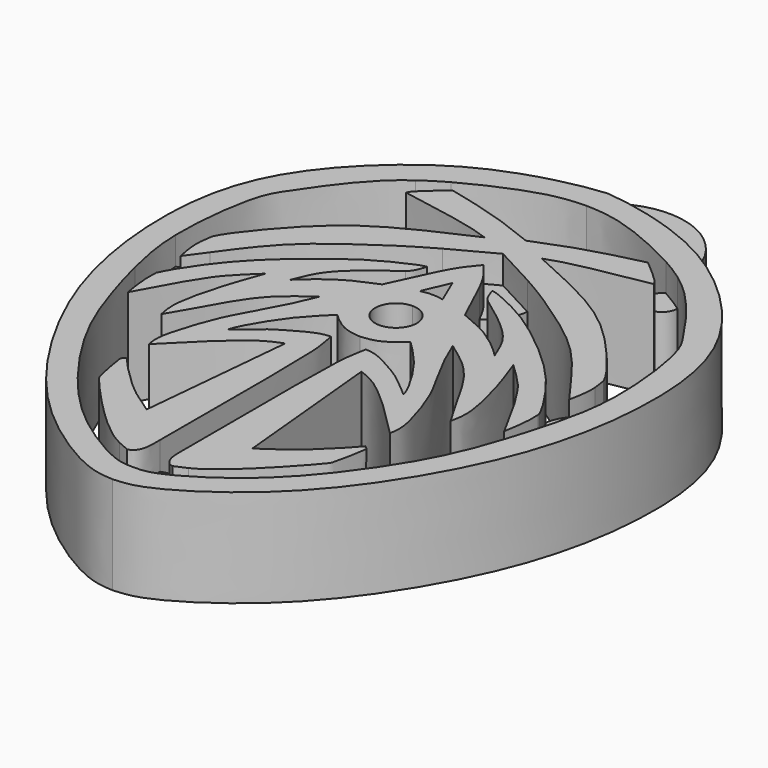
from build123d import *

# Parameters (mm, degrees)
F1_DEPTH = 7
F2_DEPTH = 5
F0_R     = 1.5875
F3_DEPTH = 3.5


with BuildPart() as f1:
    # F0 (on Top) → F1 (new body)
    with BuildSketch(Plane.XY):
        with BuildLine():
            Line((2.5498603781, 16.0869810225), (2.5498603781, 18.1321449599))
            add(Edge.make_bspline(
                [(2.5498603781, 18.1321449599), (1.5024160815, 18.5503812822), (-0.6617166136, 19.4145025556), (-3.1553280115, 20.0140728577), (-4.4420268008, 20.3234500054)],
                knots=[0, 0, 0, 0, 0.4840018817, 1, 1, 1, 1], degree=3))
            add(Edge.make_bspline(
                [(-4.4420268008, 20.3234500054), (-4.4763588659, 20.2944130671), (-4.510690931, 20.2653761289), (-4.5449728099, 20.2363700502)],
                knots=[0, 0, 0, 0, 0.0354428577, 0.0354428577, 0.0354428577, 0.0354428577], degree=3))
            add(Edge.make_bspline(
                [(-4.5449728099, 20.2363700502), (-5.131219733, 19.7403434337), (-5.7027903532, 19.2533412889), (-6.0087084223, 18.9296891348)],
                knots=[0.0354428577, 0.0354428577, 0.0354428577, 0.0354428577, 0.6415434263, 0.6415434263, 0.6415434263, 0.6415434263], degree=3))
            add(Edge.make_bspline(
                [(-6.0087084223, 18.9296891348), (-6.0338340364, 18.9031069876), (-6.2018545789, 18.7196290135), (-6.2697477029, 18.5977194783), (-6.3282122643, 18.4927399593)],
                knots=[0.6415434263, 0.6415434263, 0.6415434263, 0.6415434263, 0.6913235816, 1, 1, 1, 1], degree=3))
            add(Edge.make_bspline(
                [(-6.3282122643, 18.4927399593), (-4.2930704674, 18.1334262922), (-1.1508809937, 17.5786582539), (0.0664536208, 17.1469758472), (0.495341652, 16.9948866719)],
                knots=[0, 0, 0, 0, 0.647682711, 1, 1, 1, 1], degree=3))
            add(Edge.make_bspline(
                [(0.495341652, 16.9948866719), (-0.7998085576, 16.417448036), (-3.4759172157, 15.2243134317), (-7.409307949, 12.9173216603), (-10.9365087042, 8.6189730965), (-11.3374877977, 7.8317296814), (-11.4597479353, 7.5916959993)],
                knots=[0, 0, 0, 0, 0.2716335792, 0.5612638347, 0.8662275795, 1, 1, 1, 1], degree=3))
            add(Edge.make_bspline(
                [(-11.4597479353, 7.5916959993), (-11.5108762638, 7.2819002463), (-11.5620045924, 6.9721044933), (-11.585804411, 6.6554963703)],
                knots=[0, 0, 0, 0, 0.3287020226, 0.3287020226, 0.3287020226, 0.3287020226], degree=3))
            add(Edge.make_bspline(
                [(-11.585804411, 6.6554963703), (-11.5969674057, 6.5069954562), (-11.6193950679, 5.8538709088), (-11.4743767971, 5.1590059354), (-11.3626640935, 4.6237268674)],
                knots=[0.3287020226, 0.3287020226, 0.3287020226, 0.3287020226, 0.4828754226, 1, 1, 1, 1], degree=3))
            add(Edge.make_bspline(
                [(-11.3626640935, 4.6237268674), (-11.0817155704, 5.0192887693), (-10.7580452361, 5.4539451094), (-10.365085568, 5.9887970352)],
                knots=[0, 0, 0, 0, 0.1302768784, 0.1302768784, 0.1302768784, 0.1302768784], degree=3))
            add(Edge.make_bspline(
                [(-10.365085568, 5.9887970352), (-10.3102133227, 6.0634828832), (-9.5914407162, 7.0432617189), (-7.7361784198, 9.6295204744), (-4.1803860395, 12.1680153071), (-2.1379099721, 13.5231445843), (-0.7917821127, 14.2942534016), (-0.4964926039, 14.4598496008)],
                knots=[0.1302768784, 0.1302768784, 0.1302768784, 0.1302768784, 0.1484685286, 0.3628434069, 0.5837852, 0.7774477843, 0.8297918388, 0.8297918388, 0.8297918388, 0.8297918388], degree=3))
            add(Edge.make_bspline(
                [(-0.4964926039, 14.4598496008), (0.4637059285, 14.9983219227), (1.5176633453, 15.5529037265), (2.5498603781, 16.0869810225)],
                knots=[0.8297918388, 0.8297918388, 0.8297918388, 0.8297918388, 1, 1, 1, 1], degree=3))
        make_face()
        with BuildLine():
            add(Edge.make_bspline(
                [(2.5498603781, 18.1321449599), (3.5973046747, 18.5503812822), (5.7614373698, 19.4145025556), (8.2550487677, 20.0140728577), (9.5417475569, 20.3234500054)],
                knots=[0, 0, 0, 0, 0.4840018817, 1, 1, 1, 1], degree=3))
            Line((2.5498603781, 18.1321449599), (2.5498603781, 16.0869810225))
            add(Edge.make_bspline(
                [(5.5962133601, 14.4598496008), (4.6360148277, 14.9983219227), (3.5820574109, 15.5529037265), (2.5498603781, 16.0869810225)],
                knots=[0.8297918388, 0.8297918388, 0.8297918388, 0.8297918388, 1, 1, 1, 1], degree=3))
            add(Edge.make_bspline(
                [(15.4648063242, 5.9887970352), (15.4099340789, 6.0634828832), (14.6911614723, 7.0432617189), (12.8358991759, 9.6295204744), (9.2801067957, 12.1680153071), (7.2376307282, 13.5231445843), (5.8915028689, 14.2942534016), (5.5962133601, 14.4598496008)],
                knots=[0.1302768784, 0.1302768784, 0.1302768784, 0.1302768784, 0.1484685286, 0.3628434069, 0.5837852, 0.7774477843, 0.8297918388, 0.8297918388, 0.8297918388, 0.8297918388], degree=3))
            add(Edge.make_bspline(
                [(16.4623848496, 4.6237268674), (16.1814363266, 5.0192887693), (15.8577659923, 5.4539451094), (15.4648063242, 5.9887970352)],
                knots=[0, 0, 0, 0, 0.1302768784, 0.1302768784, 0.1302768784, 0.1302768784], degree=3))
            add(Edge.make_bspline(
                [(16.6855251672, 6.6554963703), (16.6966881619, 6.5069954562), (16.719115824, 5.8538709088), (16.5740975533, 5.1590059354), (16.4623848496, 4.6237268674)],
                knots=[0.3287020226, 0.3287020226, 0.3287020226, 0.3287020226, 0.4828754226, 1, 1, 1, 1], degree=3))
            add(Edge.make_bspline(
                [(16.5594686914, 7.5916959993), (16.61059702, 7.2819002463), (16.6617253486, 6.9721044933), (16.6855251672, 6.6554963703)],
                knots=[0, 0, 0, 0, 0.3287020226, 0.3287020226, 0.3287020226, 0.3287020226], degree=3))
            add(Edge.make_bspline(
                [(4.6043791042, 16.9948866719), (5.8995293138, 16.417448036), (8.5756379718, 15.2243134317), (12.5090287052, 12.9173216603), (16.0362294603, 8.6189730965), (16.4372085538, 7.8317296814), (16.5594686914, 7.5916959993)],
                knots=[0, 0, 0, 0, 0.2716335792, 0.5612638347, 0.8662275795, 1, 1, 1, 1], degree=3))
            add(Edge.make_bspline(
                [(11.4279330204, 18.4927399593), (9.3927912236, 18.1334262922), (6.2506017499, 17.5786582539), (5.0332671353, 17.1469758472), (4.6043791042, 16.9948866719)],
                knots=[0, 0, 0, 0, 0.647682711, 1, 1, 1, 1], degree=3))
            add(Edge.make_bspline(
                [(11.1084291785, 18.9296891348), (11.1335547926, 18.9031069876), (11.301575335, 18.7196290135), (11.369468459, 18.5977194783), (11.4279330204, 18.4927399593)],
                knots=[0.6415434263, 0.6415434263, 0.6415434263, 0.6415434263, 0.6913235816, 1, 1, 1, 1], degree=3))
            add(Edge.make_bspline(
                [(9.6446935661, 20.2363700502), (10.2309404891, 19.7403434337), (10.8025111094, 19.2533412889), (11.1084291785, 18.9296891348)],
                knots=[0.0354428577, 0.0354428577, 0.0354428577, 0.0354428577, 0.6415434263, 0.6415434263, 0.6415434263, 0.6415434263], degree=3))
            add(Edge.make_bspline(
                [(9.5417475569, 20.3234500054), (9.576079622, 20.2944130671), (9.6104116872, 20.2653761289), (9.6446935661, 20.2363700502)],
                knots=[0, 0, 0, 0, 0.0354428577, 0.0354428577, 0.0354428577, 0.0354428577], degree=3))
        make_face()
    extrude(amount=F1_DEPTH)



with BuildPart() as f1b:
    # F0 (on Top) → F1, piece 2 (new body)
    with BuildSketch(Plane.XY):
        with BuildLine():
            Line((2.5498603781, 11.558265988), (2.5498603781, 14.3534654393))
            add(Edge.make_bspline(
                [(2.5498603781, 14.3534654393), (2.2259246888, 13.9723706889), (1.7128511282, 13.3687643343), (1.2126462249, 12.432348769), (1.0338453437, 12.0734441253)],
                knots=[0, 0, 0, 0, 0.2953984985, 0.4678742247, 0.4678742247, 0.4678742247, 0.4678742247], degree=3))
            add(Edge.make_bspline(
                [(1.0338453437, 12.0734441253), (0.8285592855, 11.6613761362), (0.2967311228, 10.5055216793), (-0.1398450297, 9.563652863), (-0.4139548051, 8.9722887947)],
                knots=[0.4678742247, 0.4678742247, 0.4678742247, 0.4678742247, 0.6658982037, 1, 1, 1, 1], degree=3))
            add(Edge.make_bspline(
                [(-0.4139548051, 8.9722887947), (-1.055373734, 8.71192631), (-2.3097248616, 8.2027645726), (-3.8564689429, 7.0721150532), (-4.4869721315, 6.4683751369), (-4.7688249271, 6.1984862826)],
                knots=[0, 0, 0, 0, 0.3665560545, 0.7168326027, 1, 1, 1, 1], degree=3))
            add(Edge.make_bspline(
                [(-4.7688249271, 6.1984862826), (-4.536388598, 6.8006454228), (-4.0563068803, 8.0443649199), (-2.4188401595, 9.5838079413), (-1.0970493288, 10.552187106), (-0.4139548051, 11.0526403463)],
                knots=[0, 0, 0, 0, 0.3120194135, 0.6444552647, 1, 1, 1, 1], degree=3))
            add(Edge.make_bspline(
                [(-0.4139548051, 11.0526403463), (-0.3129414482, 11.1387370093), (-0.0648231048, 11.3502155905), (0.1121569163, 11.8860701235), (0.2170852471, 12.2037688182)],
                knots=[0, 0, 0, 0, 0.4071176502, 1, 1, 1, 1], degree=3))
            add(Edge.make_bspline(
                [(0.2170852471, 12.2037688182), (0.1098069085, 12.1898826125), (-0.2542073889, 12.1427642706), (-2.5591274282, 11.0604625468), (-4.8208141775, 9.5107241095), (-7.9008195416, 6.9161749393), (-9.3601934364, 5.050525478), (-9.6955345112, 4.5877093102)],
                knots=[0, 0, 0, 0, 0.071079847, 0.2411864397, 0.431168476, 0.6816967481, 0.7716308165, 0.7716308165, 0.7716308165, 0.7716308165], degree=3))
            add(Edge.make_bspline(
                [(-9.6955345112, 4.5877093102), (-10.1643039753, 3.9407438675), (-10.8377956888, 2.8720074292), (-11.0612661415, 2.393135799), (-11.1617155493, 2.1778842027)],
                knots=[0.7716308165, 0.7716308165, 0.7716308165, 0.7716308165, 0.897348625, 1, 1, 1, 1], degree=3))
            add(Edge.make_bspline(
                [(-11.1617155493, 2.1778842027), (-11.1627880286, 2.1510214394), (-11.1638605078, 2.1241586761), (-11.1649151852, 2.0972736115)],
                knots=[0, 0, 0, 0, 0.0334524547, 0.0334524547, 0.0334524547, 0.0334524547], degree=3))
            add(Edge.make_bspline(
                [(-11.1649151852, 2.0972736115), (-11.1780393532, 1.7627219031), (-11.2021118102, 0.9779088711), (-11.0263916767, -0.0571935391), (-10.9263510794, -0.6464957515)],
                knots=[0.0334524547, 0.0334524547, 0.0334524547, 0.0334524547, 0.4497272915, 1, 1, 1, 1], degree=3))
            add(Edge.make_bspline(
                [(-10.9263510794, -0.6464957515), (-10.2185399064, 0.6694656993), (-9.0121923666, 2.9000598259), (-7.8473075322, 4.5003773786), (-6.8153142065, 5.4424143517), (-6.3171203718, 5.9241092613)],
                knots=[0, 0, 0, 0, 0.4173439585, 0.7054166704, 1, 1, 1, 1], degree=3))
            add(Edge.make_bspline(
                [(-6.3171203718, 5.9241092613), (-6.5122714979, 5.3634745704), (-7.0433010776, 4.0266454822), (-8.1543009121, 0.092866239), (-7.9058388142, -1.0906436914), (-7.8077646736, -1.5487286127)],
                knots=[0, 0, 0, 0, 0.3044271067, 0.7304904484, 1, 1, 1, 1], degree=3))
            add(Edge.make_bspline(
                [(-7.8077646736, -1.5487286127), (-7.2666448651, -0.6974030461), (-6.368897938, 1.0308812644), (-4.8039197085, 3.644702153), (-3.2341162609, 4.8917420848), (-2.5042965495, 5.434389799), (-2.2178473452, 5.6299028762)],
                knots=[0, 0, 0, 0, 0.2900886434, 0.5814087861, 0.8172371287, 1, 1, 1, 1], degree=3))
            add(Edge.make_bspline(
                [(-2.2178473452, 5.6299028762), (-2.3829485826, 5.2143190749), (-2.7736830171, 4.2307837347), (-4.1250332111, 1.7266285673), (-5.0212655763, 0.1374579917), (-5.8488613291, -2.2845442713), (-6.2367396815, -3.9106694242), (-6.1275439546, -4.5543234149), (-6.0817553701, -4.8242241332)],
                knots=[0, 0, 0, 0, 0.1509314251, 0.3571996552, 0.5291429248, 0.7258482662, 0.8850411076, 1, 1, 1, 1], degree=3))
            add(Edge.make_bspline(
                [(-6.0817553701, -4.8242241332), (-5.2948602473, -4.0207972497), (-3.7759106356, -2.4699362551), (-1.5064578193, -0.5000337011), (-0.5597479201, -0.1431460479), (-0.1780178178, 0.0007573384)],
                knots=[0, 0, 0, 0, 0.3907971412, 0.7543586796, 1, 1, 1, 1], degree=3))
            add(Edge.make_bspline(
                [(-0.1780178178, 0.0007573384), (-0.530718876, -3.6937972299), (-0.8834199342, -7.3883517982), (-1.2361209925, -11.0829063665)],
                knots=[0, 0, 0, 0, 11.1340551217, 11.1340551217, 11.1340551217, 11.1340551217], degree=3))
            add(Edge.make_bspline(
                [(-1.2361209925, -11.0829063665), (-1.9202554869, -10.6369122943), (-3.3205986094, -9.7240147035), (-5.3323089115, -7.6943588484), (-5.8157254364, -7.1285383862), (-5.9943811889, -6.9194286947)],
                knots=[0, 0, 0, 0, 0.3758575264, 0.7693363022, 1, 1, 1, 1], degree=3))
            add(Edge.make_bspline(
                [(-5.9943811889, -6.9194286947), (-6.0724106789, -6.9669995968), (-6.2556170879, -7.078691909), (-6.2246927503, -7.565408349), (-5.8470993749, -9.4699316507), (-5.6966770124, -9.8067076531), (-4.6265400833, -11.0406813924), (-2.6302247227, -13.1429668745), (-0.9200835874, -14.6225288688), (-0.1002942522, -15.07243202), (0.0818402449, -15.1630223313)],
                knots=[0, 0, 0, 0, 0.0558372836, 0.1311010517, 0.2835442286, 0.3538641073, 0.4868091416, 0.6803152247, 0.8619488924, 0.9152000928, 0.9152000928, 0.9152000928, 0.9152000928], degree=3))
            add(Edge.make_bspline(
                [(0.0818402449, -15.1630223313), (0.3718804383, -15.3072829291), (0.6524832322, -15.4226137437), (0.933086026, -15.5379445582)],
                knots=[0.9152000928, 0.9152000928, 0.9152000928, 0.9152000928, 1, 1, 1, 1], degree=3))
            add(Edge.make_bspline(
                [(0.933086026, -15.5379445582), (1.0460820753, -15.5054648384), (1.3044677, -15.4311941647), (1.6612870941, -14.7713265798), (1.6596207661, -14.2722208963), (1.6569112979, -13.4954335239)],
                knots=[0, 0, 0, 0, 0.0714690077, 0.1634266359, 0.3016227606, 0.3016227606, 0.3016227606, 0.3016227606], degree=3))
            add(Edge.make_bspline(
                [(1.6569112979, -13.4954335239), (1.6566449973, -13.4190868446), (1.6473336729, -10.7536721342), (1.7436163144, 0.0476489529), (1.4487997799, 1.3485880066), (1.3485754988, 1.988749192), (1.3062829556, 2.2588837766)],
                knots=[0.3016227606, 0.3016227606, 0.3016227606, 0.3016227606, 0.3152053903, 0.7488235986, 0.8940088303, 1, 1, 1, 1], degree=3))
            add(Edge.make_bspline(
                [(1.3062829556, 2.2588837766), (1.0531484714, 2.2364227517), (0.4387830673, 2.1819091335), (-1.1051189298, 1.3175501423), (-2.2665837849, 0.617888243), (-3.481381067, -0.4851271067), (-3.6849663405, -0.645856427), (-3.7473539559, -0.6951110653)],
                knots=[0, 0, 0, 0, 0.1740278908, 0.4223711984, 0.6570649075, 0.8949093799, 1, 1, 1, 1], degree=3))
            add(Edge.make_bspline(
                [(-3.7473539559, -0.6951110653), (-3.7058972675, -0.5462348299), (-3.5739578554, -0.0724236367), (-2.1705978118, 2.3681841727), (-0.8551285759, 3.7564048353), (-0.299295445, 4.3052588076), (-0.067349253, 4.5342926341)],
                knots=[0, 0, 0, 0, 0.1569249471, 0.4994268983, 0.7911135225, 1, 1, 1, 1], degree=3))
            add(Edge.make_bspline(
                [(-0.067349253, 4.5342926341), (0.011285331, 4.4542316427), (0.2315362728, 4.229985416), (1.3013409196, 3.3863866348), (2.1354984606, 3.3062559104), (2.5498603781, 3.2664515342)],
                knots=[0, 0, 0, 0, 0.2184086147, 0.6117499523, 1, 1, 1, 1], degree=3))
            Line((2.5498603781, 3.2664515342), (2.5498603781, 5.0207314373))
            ThreePointArc((2.5498603781, 5.0207314373), (1.0610557558, 6.5095360596), (2.5498603781, 7.9983406819))
            Line((2.5498603781, 7.9983406819), (2.5498603781, 9.7538018612))
            add(Edge.make_bspline(
                [(1.7343357514, 9.6557330662), (1.9014491808, 9.6921204621), (2.2069680168, 9.7586443487), (2.442954397, 9.7553116379), (2.5498603781, 9.7538018612)],
                knots=[0, 0, 0, 0, 0.5469824105, 1, 1, 1, 1], degree=3))
            add(Edge.make_bspline(
                [(2.5498603781, 11.558265988), (2.2780188358, 10.9240883474), (2.0061772936, 10.2899107068), (1.7343357514, 9.6557330662)],
                knots=[0, 0, 0, 0, 2.0699545733, 2.0699545733, 2.0699545733, 2.0699545733], degree=3))
        make_face()
        with BuildLine():
            add(Edge.make_bspline(
                [(2.5498603781, 14.3534654393), (2.8737960673, 13.9723706889), (3.386869628, 13.3687643343), (3.8870745313, 12.432348769), (4.0658754125, 12.0734441253)],
                knots=[0, 0, 0, 0, 0.2953984985, 0.4678742247, 0.4678742247, 0.4678742247, 0.4678742247], degree=3))
            Line((2.5498603781, 14.3534654393), (2.5498603781, 11.558265988))
            add(Edge.make_bspline(
                [(2.5498603781, 11.558265988), (2.8217019203, 10.9240883474), (3.0935434626, 10.2899107068), (3.3653850048, 9.6557330662)],
                knots=[0, 0, 0, 0, 2.0699545733, 2.0699545733, 2.0699545733, 2.0699545733], degree=3))
            add(Edge.make_bspline(
                [(3.3653850048, 9.6557330662), (3.1982715754, 9.6921204621), (2.8927527394, 9.7586443487), (2.6567663592, 9.7553116379), (2.5498603781, 9.7538018612)],
                knots=[0, 0, 0, 0, 0.5469824105, 1, 1, 1, 1], degree=3))
            Line((2.5498603781, 9.7538018612), (2.5498603781, 7.9983406819))
            ThreePointArc((2.5498603781, 7.9983406819), (3.6026042224, 7.5622799039), (4.0386650004, 6.5095360596))
            ThreePointArc((4.0386650004, 6.5095360596), (3.6026042224, 5.4567922153), (2.5498603781, 5.0207314373))
            Line((2.5498603781, 5.0207314373), (2.5498603781, 3.2664515342))
            add(Edge.make_bspline(
                [(5.1670700092, 4.5342926341), (5.0884354251, 4.4542316427), (4.8681844834, 4.229985416), (3.7983798366, 3.3863866348), (2.9642222955, 3.3062559104), (2.5498603781, 3.2664515342)],
                knots=[0, 0, 0, 0, 0.2184086147, 0.6117499523, 1, 1, 1, 1], degree=3))
            add(Edge.make_bspline(
                [(8.847074712, -0.6951110653), (8.8056180237, -0.5462348299), (8.6736786116, -0.0724236367), (7.2703185679, 2.3681841727), (5.954849332, 3.7564048353), (5.3990162012, 4.3052588076), (5.1670700092, 4.5342926341)],
                knots=[0, 0, 0, 0, 0.1569249471, 0.4994268983, 0.7911135225, 1, 1, 1, 1], degree=3))
            add(Edge.make_bspline(
                [(3.7934378005, 2.2588837766), (4.0465722847, 2.2364227517), (4.6609376889, 2.1819091335), (6.204839686, 1.3175501423), (7.3663045411, 0.617888243), (8.5811018232, -0.4851271067), (8.7846870967, -0.645856427), (8.847074712, -0.6951110653)],
                knots=[0, 0, 0, 0, 0.1740278908, 0.4223711984, 0.6570649075, 0.8949093799, 1, 1, 1, 1], degree=3))
            add(Edge.make_bspline(
                [(3.4428094583, -13.4954335239), (3.4430757588, -13.4190868446), (3.4523870833, -10.7536721342), (3.3561044418, 0.0476489529), (3.6509209763, 1.3485880066), (3.7511452574, 1.988749192), (3.7934378005, 2.2588837766)],
                knots=[0.3016227606, 0.3016227606, 0.3016227606, 0.3016227606, 0.3152053903, 0.7488235986, 0.8940088303, 1, 1, 1, 1], degree=3))
            add(Edge.make_bspline(
                [(4.1666347302, -15.5379445582), (4.0536386809, -15.5054648384), (3.7952530562, -15.4311941647), (3.438433662, -14.7713265798), (3.4400999901, -14.2722208963), (3.4428094583, -13.4954335239)],
                knots=[0, 0, 0, 0, 0.0714690077, 0.1634266359, 0.3016227606, 0.3016227606, 0.3016227606, 0.3016227606], degree=3))
            add(Edge.make_bspline(
                [(5.0178805113, -15.1630223313), (4.7278403178, -15.3072829291), (4.447237524, -15.4226137437), (4.1666347302, -15.5379445582)],
                knots=[0.9152000928, 0.9152000928, 0.9152000928, 0.9152000928, 1, 1, 1, 1], degree=3))
            add(Edge.make_bspline(
                [(11.094101945, -6.9194286947), (11.1721314351, -6.9669995968), (11.355337844, -7.078691909), (11.3244135065, -7.565408349), (10.946820131, -9.4699316507), (10.7963977685, -9.8067076531), (9.7262608395, -11.0406813924), (7.7299454788, -13.1429668745), (6.0198043435, -14.6225288688), (5.2000150084, -15.07243202), (5.0178805113, -15.1630223313)],
                knots=[0, 0, 0, 0, 0.0558372836, 0.1311010517, 0.2835442286, 0.3538641073, 0.4868091416, 0.6803152247, 0.8619488924, 0.9152000928, 0.9152000928, 0.9152000928, 0.9152000928], degree=3))
            add(Edge.make_bspline(
                [(6.3358417486, -11.0829063665), (7.019976243, -10.6369122943), (8.4203193655, -9.7240147035), (10.4320296677, -7.6943588484), (10.9154461926, -7.1285383862), (11.094101945, -6.9194286947)],
                knots=[0, 0, 0, 0, 0.3758575264, 0.7693363022, 1, 1, 1, 1], degree=3))
            add(Edge.make_bspline(
                [(5.277738574, 0.0007573384), (5.6304396322, -3.6937972299), (5.9831406904, -7.3883517982), (6.3358417486, -11.0829063665)],
                knots=[0, 0, 0, 0, 11.1340551217, 11.1340551217, 11.1340551217, 11.1340551217], degree=3))
            add(Edge.make_bspline(
                [(11.1814761262, -4.8242241332), (10.3945810035, -4.0207972497), (8.8756313918, -2.4699362551), (6.6061785754, -0.5000337011), (5.6594686763, -0.1431460479), (5.277738574, 0.0007573384)],
                knots=[0, 0, 0, 0, 0.3907971412, 0.7543586796, 1, 1, 1, 1], degree=3))
            add(Edge.make_bspline(
                [(7.3175681014, 5.6299028762), (7.4826693387, 5.2143190749), (7.8734037733, 4.2307837347), (9.2247539673, 1.7266285673), (10.1209863325, 0.1374579917), (10.9485820853, -2.2845442713), (11.3364604377, -3.9106694242), (11.2272647107, -4.5543234149), (11.1814761262, -4.8242241332)],
                knots=[0, 0, 0, 0, 0.1509314251, 0.3571996552, 0.5291429248, 0.7258482662, 0.8850411076, 1, 1, 1, 1], degree=3))
            add(Edge.make_bspline(
                [(12.9074854298, -1.5487286127), (12.3663656212, -0.6974030461), (11.4686186942, 1.0308812644), (9.9036404647, 3.644702153), (8.333837017, 4.8917420848), (7.6040173056, 5.434389799), (7.3175681014, 5.6299028762)],
                knots=[0, 0, 0, 0, 0.2900886434, 0.5814087861, 0.8172371287, 1, 1, 1, 1], degree=3))
            add(Edge.make_bspline(
                [(11.416841128, 5.9241092613), (11.611992254, 5.3634745704), (12.1430218338, 4.0266454822), (13.2540216682, 0.092866239), (13.0055595704, -1.0906436914), (12.9074854298, -1.5487286127)],
                knots=[0, 0, 0, 0, 0.3044271067, 0.7304904484, 1, 1, 1, 1], degree=3))
            add(Edge.make_bspline(
                [(16.0260718355, -0.6464957515), (15.3182606626, 0.6694656993), (14.1119131227, 2.9000598259), (12.9470282884, 4.5003773786), (11.9150349626, 5.4424143517), (11.416841128, 5.9241092613)],
                knots=[0, 0, 0, 0, 0.4173439585, 0.7054166704, 1, 1, 1, 1], degree=3))
            add(Edge.make_bspline(
                [(16.2646359413, 2.0972736115), (16.2777601093, 1.7627219031), (16.3018325664, 0.9779088711), (16.1261124329, -0.0571935391), (16.0260718355, -0.6464957515)],
                knots=[0.0334524547, 0.0334524547, 0.0334524547, 0.0334524547, 0.4497272915, 1, 1, 1, 1], degree=3))
            add(Edge.make_bspline(
                [(16.2614363054, 2.1778842027), (16.2625087847, 2.1510214394), (16.263581264, 2.1241586761), (16.2646359413, 2.0972736115)],
                knots=[0, 0, 0, 0, 0.0334524547, 0.0334524547, 0.0334524547, 0.0334524547], degree=3))
            add(Edge.make_bspline(
                [(14.7952552674, 4.5877093102), (15.2640247314, 3.9407438675), (15.937516445, 2.8720074292), (16.1609868977, 2.393135799), (16.2614363054, 2.1778842027)],
                knots=[0.7716308165, 0.7716308165, 0.7716308165, 0.7716308165, 0.897348625, 1, 1, 1, 1], degree=3))
            add(Edge.make_bspline(
                [(4.882635509, 12.2037688182), (4.9899138477, 12.1898826125), (5.353928145, 12.1427642706), (7.6588481844, 11.0604625468), (9.9205349337, 9.5107241095), (13.0005402978, 6.9161749393), (14.4599141926, 5.050525478), (14.7952552674, 4.5877093102)],
                knots=[0, 0, 0, 0, 0.071079847, 0.2411864397, 0.431168476, 0.6816967481, 0.7716308165, 0.7716308165, 0.7716308165, 0.7716308165], degree=3))
            add(Edge.make_bspline(
                [(5.5136755612, 11.0526403463), (5.4126622043, 11.1387370093), (5.164543861, 11.3502155905), (4.9875638398, 11.8860701235), (4.882635509, 12.2037688182)],
                knots=[0, 0, 0, 0, 0.4071176502, 1, 1, 1, 1], degree=3))
            add(Edge.make_bspline(
                [(9.8685456832, 6.1984862826), (9.6361093542, 6.8006454228), (9.1560276365, 8.0443649199), (7.5185609157, 9.5838079413), (6.1967700849, 10.552187106), (5.5136755612, 11.0526403463)],
                knots=[0, 0, 0, 0, 0.3120194135, 0.6444552647, 1, 1, 1, 1], degree=3))
            add(Edge.make_bspline(
                [(5.5136755612, 8.9722887947), (6.1550944902, 8.71192631), (7.4094456178, 8.2027645726), (8.9561896991, 7.0721150532), (9.5866928876, 6.4683751369), (9.8685456832, 6.1984862826)],
                knots=[0, 0, 0, 0, 0.3665560545, 0.7168326027, 1, 1, 1, 1], degree=3))
            add(Edge.make_bspline(
                [(4.0658754125, 12.0734441253), (4.2711614706, 11.6613761362), (4.8029896333, 10.5055216793), (5.2395657858, 9.563652863), (5.5136755612, 8.9722887947)],
                knots=[0.4678742247, 0.4678742247, 0.4678742247, 0.4678742247, 0.6658982037, 1, 1, 1, 1], degree=3))
        make_face()
    extrude(amount=F1_DEPTH)


with BuildPart() as f1c:
    # F0 (on Top) → F1, piece 3 (new body)
    with BuildSketch(Plane.XY):
        with BuildLine():
            Line((2.5498603781, 23.5473338696), (2.5498603781, 25.4549840809))
            add(Edge.make_bspline(
                [(2.5498603781, 25.4549840809), (1.043690657, 25.337267392), (-0.9548141242, 24.8974875217), (-2.775580297, 24.2618201929), (-2.8159755262, 24.2475881025)],
                knots=[0, 0, 0, 0, 0.1010706534, 0.1033688253, 0.1033688253, 0.1033688253, 0.1033688253], degree=3))
            add(Edge.make_bspline(
                [(-2.8159755262, 24.2475881025), (-4.669497735, 23.5945531733), (-8.3513925558, 21.6973438954), (-14.4641637338, 15.3093613236), (-15.522605673, 6.7350405684), (-13.7549451802, -2.8825293909), (-8.2117882601, -12.048960114), (-3.3022411201, -16.4405530573), (0.6887288942, -18.7592259887), (2.0315601225, -18.8394344951), (2.5498603781, -18.8703817575)],
                knots=[0.1033688253, 0.1033688253, 0.1033688253, 0.1033688253, 0.2088197111, 0.3353385421, 0.4609015192, 0.597353233, 0.7392583701, 0.8522207596, 0.9428695364, 1, 1, 1, 1], degree=3))
            Line((2.5498603781, -18.8703817575), (2.5498603781, -17.013891677))
            add(Edge.make_bspline(
                [(2.5498603781, -17.013891677), (2.1956313024, -17.01226608), (1.5652939579, -17.0093733912), (0.4960889951, -16.5250706919), (-0.0084410377, -16.2539918101)],
                knots=[0, 0, 0, 0, 0.0417048482, 0.0742122119, 0.0742122119, 0.0742122119, 0.0742122119], degree=3))
            add(Edge.make_bspline(
                [(-0.0084410377, -16.2539918101), (-0.6631183934, -15.9022402908), (-2.8374105703, -14.5319473211), (-5.9870236573, -11.6601407374), (-10.025175575, -5.8281257664), (-11.501615972, -1.6150216264), (-12.2613219069, 0.9605359587), (-12.5101373954, 1.9583986944)],
                knots=[0.0742122119, 0.0742122119, 0.0742122119, 0.0742122119, 0.1163937147, 0.2023769625, 0.3025194914, 0.3873122852, 0.4432061793, 0.4432061793, 0.4432061793, 0.4432061793], degree=3))
            add(Edge.make_bspline(
                [(-12.5101373954, 1.9583986944), (-12.6170757233, 2.387269795), (-12.9606043132, 3.8872596126), (-13.1451669452, 5.2854778614), (-13.1729919186, 6.4381274302)],
                knots=[0.4432061793, 0.4432061793, 0.4432061793, 0.4432061793, 0.4672287978, 0.5281549763, 0.5281549763, 0.5281549763, 0.5281549763], degree=3))
            add(Edge.make_bspline(
                [(-13.1729919186, 6.4381274302), (-13.1807711845, 6.7603835354), (-13.1783537187, 8.8177014519), (-12.6693778421, 12.9174006242), (-11.5075151201, 14.7018824036), (-9.1808597003, 18.0680379813), (-7.3967007898, 19.5748555589), (-6.825052346, 19.9877903404)],
                knots=[0.5281549763, 0.5281549763, 0.5281549763, 0.5281549763, 0.5451886295, 0.6330862181, 0.6893084864, 0.7729839409, 0.8095773555, 0.8095773555, 0.8095773555, 0.8095773555], degree=3))
            add(Edge.make_bspline(
                [(-6.825052346, 19.9877903404), (-6.2913640946, 20.3733042762), (-5.7325788225, 20.7191302084), (-5.1402323579, 21.0475035546)],
                knots=[0.8095773555, 0.8095773555, 0.8095773555, 0.8095773555, 0.8437407922, 0.8437407922, 0.8437407922, 0.8437407922], degree=3))
            add(Edge.make_bspline(
                [(-5.1402323579, 21.0475035546), (-4.9067377111, 21.17694371), (-3.1688344227, 22.0995781476), (0.085320527, 23.4560127469), (1.8360834205, 23.5208855599), (2.5498603781, 23.5473338696)],
                knots=[0.8437407922, 0.8437407922, 0.8437407922, 0.8437407922, 0.8572075385, 0.9417842535, 1, 1, 1, 1], degree=3))
        make_face()
        with BuildLine():
            add(Edge.make_bspline(
                [(2.5498603781, 25.4549840809), (4.0560300991, 25.337267392), (6.0545348804, 24.8974875217), (7.8753010531, 24.2618201929), (7.9156962823, 24.2475881025)],
                knots=[0, 0, 0, 0, 0.1010706534, 0.1033688253, 0.1033688253, 0.1033688253, 0.1033688253], degree=3))
            Line((2.5498603781, 25.4549840809), (2.5498603781, 23.5473338696))
            add(Edge.make_bspline(
                [(10.239953114, 21.0475035546), (10.0064584673, 21.17694371), (8.2685551789, 22.0995781476), (5.0144002292, 23.4560127469), (3.2636373357, 23.5208855599), (2.5498603781, 23.5473338696)],
                knots=[0.8437407922, 0.8437407922, 0.8437407922, 0.8437407922, 0.8572075385, 0.9417842535, 1, 1, 1, 1], degree=3))
            add(Edge.make_bspline(
                [(11.9247731022, 19.9877903404), (11.3910848508, 20.3733042762), (10.8322995787, 20.7191302084), (10.239953114, 21.0475035546)],
                knots=[0.8095773555, 0.8095773555, 0.8095773555, 0.8095773555, 0.8437407922, 0.8437407922, 0.8437407922, 0.8437407922], degree=3))
            add(Edge.make_bspline(
                [(18.2727126747, 6.4381274302), (18.2804919407, 6.7603835354), (18.2780744748, 8.8177014519), (17.7690985983, 12.9174006242), (16.6072358762, 14.7018824036), (14.2805804565, 18.0680379813), (12.496421546, 19.5748555589), (11.9247731022, 19.9877903404)],
                knots=[0.5281549763, 0.5281549763, 0.5281549763, 0.5281549763, 0.5451886295, 0.6330862181, 0.6893084864, 0.7729839409, 0.8095773555, 0.8095773555, 0.8095773555, 0.8095773555], degree=3))
            add(Edge.make_bspline(
                [(17.6098581516, 1.9583986944), (17.7167964794, 2.387269795), (18.0603250694, 3.8872596126), (18.2448877013, 5.2854778614), (18.2727126747, 6.4381274302)],
                knots=[0.4432061793, 0.4432061793, 0.4432061793, 0.4432061793, 0.4672287978, 0.5281549763, 0.5281549763, 0.5281549763, 0.5281549763], degree=3))
            add(Edge.make_bspline(
                [(5.1081617939, -16.2539918101), (5.7628391496, -15.9022402908), (7.9371313264, -14.5319473211), (11.0867444135, -11.6601407374), (15.1248963311, -5.8281257664), (16.6013367281, -1.6150216264), (17.361042663, 0.9605359587), (17.6098581516, 1.9583986944)],
                knots=[0.0742122119, 0.0742122119, 0.0742122119, 0.0742122119, 0.1163937147, 0.2023769625, 0.3025194914, 0.3873122852, 0.4432061793, 0.4432061793, 0.4432061793, 0.4432061793], degree=3))
            add(Edge.make_bspline(
                [(2.5498603781, -17.013891677), (2.9040894537, -17.01226608), (3.5344267983, -17.0093733912), (4.6036317611, -16.5250706919), (5.1081617939, -16.2539918101)],
                knots=[0, 0, 0, 0, 0.0417048482, 0.0742122119, 0.0742122119, 0.0742122119, 0.0742122119], degree=3))
            Line((2.5498603781, -17.013891677), (2.5498603781, -18.8703817575))
            add(Edge.make_bspline(
                [(7.9156962823, 24.2475881025), (9.7692184912, 23.5945531733), (13.451113312, 21.6973438954), (19.56388449, 15.3093613236), (20.6223264291, 6.7350405684), (18.8546659364, -2.8825293909), (13.3115090163, -12.048960114), (8.4019618763, -16.4405530573), (4.4109918619, -18.7592259887), (3.0681606337, -18.8394344951), (2.5498603781, -18.8703817575)],
                knots=[0.1033688253, 0.1033688253, 0.1033688253, 0.1033688253, 0.2088197111, 0.3353385421, 0.4609015192, 0.597353233, 0.7392583701, 0.8522207596, 0.9428695364, 1, 1, 1, 1], degree=3))
        make_face()
    extrude(amount=F1_DEPTH)


with BuildPart() as f1_1:
    add(f1.part)

    add(f1b.part)  # F2 merges F1b

    add(f1c.part)  # F2 merges F1c
    # F0 (on Top) → F2 (join)
    with BuildSketch(Plane.XY):
        with BuildLine():
            ThreePointArc((-4.5449728099, 20.2363700502), (-4.7491676622, 20.7105050823), (-5.1402323579, 21.0475035546))
            add(Edge.make_bspline(
                [(-6.825052346, 19.9877903404), (-6.2913640946, 20.3733042762), (-5.7325788225, 20.7191302084), (-5.1402323579, 21.0475035546)],
                knots=[0.8095773555, 0.8095773555, 0.8095773555, 0.8095773555, 0.8437407922, 0.8437407922, 0.8437407922, 0.8437407922], degree=3))
            ThreePointArc((-6.825052346, 19.9877903404), (-6.586400991, 19.3279515704), (-6.0087084223, 18.9296891348))
            add(Edge.make_bspline(
                [(-4.5449728099, 20.2363700502), (-5.131219733, 19.7403434337), (-5.7027903532, 19.2533412889), (-6.0087084223, 18.9296891348)],
                knots=[0.0354428577, 0.0354428577, 0.0354428577, 0.0354428577, 0.6415434263, 0.6415434263, 0.6415434263, 0.6415434263], degree=3))
        make_face()
        with BuildLine():
            Line((2.5498603781, 14.3534654393), (2.5498603781, 16.0869810225))
            add(Edge.make_bspline(
                [(-0.4964926039, 14.4598496008), (0.4637059285, 14.9983219227), (1.5176633453, 15.5529037265), (2.5498603781, 16.0869810225)],
                knots=[0.8297918388, 0.8297918388, 0.8297918388, 0.8297918388, 1, 1, 1, 1], degree=3))
            ThreePointArc((-0.4964926039, 14.4598496008), (-0.0245392126, 13.0786155593), (1.0338453437, 12.0734441253))
            add(Edge.make_bspline(
                [(2.5498603781, 14.3534654393), (2.2259246888, 13.9723706889), (1.7128511282, 13.3687643343), (1.2126462249, 12.432348769), (1.0338453437, 12.0734441253)],
                knots=[0, 0, 0, 0, 0.2953984985, 0.4678742247, 0.4678742247, 0.4678742247, 0.4678742247], degree=3))
        make_face()
        with BuildLine():
            add(Edge.make_bspline(
                [(11.9247731022, 19.9877903404), (11.3910848508, 20.3733042762), (10.8322995787, 20.7191302084), (10.239953114, 21.0475035546)],
                knots=[0.8095773555, 0.8095773555, 0.8095773555, 0.8095773555, 0.8437407922, 0.8437407922, 0.8437407922, 0.8437407922], degree=3))
            ThreePointArc((10.239953114, 21.0475035546), (9.8488884184, 20.7105050823), (9.6446935661, 20.2363700502))
            add(Edge.make_bspline(
                [(9.6446935661, 20.2363700502), (10.2309404891, 19.7403434337), (10.8025111094, 19.2533412889), (11.1084291785, 18.9296891348)],
                knots=[0.0354428577, 0.0354428577, 0.0354428577, 0.0354428577, 0.6415434263, 0.6415434263, 0.6415434263, 0.6415434263], degree=3))
            ThreePointArc((11.1084291785, 18.9296891348), (11.6861217472, 19.3279515704), (11.9247731022, 19.9877903404))
        make_face()
        with BuildLine():
            add(Edge.make_bspline(
                [(17.6098581516, 1.9583986944), (17.7167964794, 2.387269795), (18.0603250694, 3.8872596126), (18.2448877013, 5.2854778614), (18.2727126747, 6.4381274302)],
                knots=[0.4432061793, 0.4432061793, 0.4432061793, 0.4432061793, 0.4672287978, 0.5281549763, 0.5281549763, 0.5281549763, 0.5281549763], degree=3))
            ThreePointArc((18.2727126747, 6.4381274302), (17.4978428795, 6.6835307576), (16.6855251672, 6.6554963703))
            add(Edge.make_bspline(
                [(16.6855251672, 6.6554963703), (16.6966881619, 6.5069954562), (16.719115824, 5.8538709088), (16.5740975533, 5.1590059354), (16.4623848496, 4.6237268674)],
                knots=[0.3287020226, 0.3287020226, 0.3287020226, 0.3287020226, 0.4828754226, 1, 1, 1, 1], degree=3))
            add(Edge.make_bspline(
                [(16.4623848496, 4.6237268674), (16.1814363266, 5.0192887693), (15.8577659923, 5.4539451094), (15.4648063242, 5.9887970352)],
                knots=[0, 0, 0, 0, 0.1302768784, 0.1302768784, 0.1302768784, 0.1302768784], degree=3))
            ThreePointArc((15.4648063242, 5.9887970352), (15.0132607291, 5.34405519), (14.7952552674, 4.5877093102))
            add(Edge.make_bspline(
                [(14.7952552674, 4.5877093102), (15.2640247314, 3.9407438675), (15.937516445, 2.8720074292), (16.1609868977, 2.393135799), (16.2614363054, 2.1778842027)],
                knots=[0.7716308165, 0.7716308165, 0.7716308165, 0.7716308165, 0.897348625, 1, 1, 1, 1], degree=3))
            add(Edge.make_bspline(
                [(16.2614363054, 2.1778842027), (16.2625087847, 2.1510214394), (16.263581264, 2.1241586761), (16.2646359413, 2.0972736115)],
                knots=[0, 0, 0, 0, 0.0334524547, 0.0334524547, 0.0334524547, 0.0334524547], degree=3))
            ThreePointArc((16.2646359413, 2.0972736115), (16.9272357645, 1.930861126), (17.6098581516, 1.9583986944))
        make_face()
        with BuildLine():
            ThreePointArc((-11.585804411, 6.6554963703), (-12.3981221233, 6.6835307576), (-13.1729919186, 6.4381274302))
            add(Edge.make_bspline(
                [(-12.5101373954, 1.9583986944), (-12.6170757233, 2.387269795), (-12.9606043132, 3.8872596126), (-13.1451669452, 5.2854778614), (-13.1729919186, 6.4381274302)],
                knots=[0.4432061793, 0.4432061793, 0.4432061793, 0.4432061793, 0.4672287978, 0.5281549763, 0.5281549763, 0.5281549763, 0.5281549763], degree=3))
            ThreePointArc((-12.5101373954, 1.9583986944), (-11.8275150083, 1.930861126), (-11.1649151852, 2.0972736115))
            add(Edge.make_bspline(
                [(-11.1617155493, 2.1778842027), (-11.1627880286, 2.1510214394), (-11.1638605078, 2.1241586761), (-11.1649151852, 2.0972736115)],
                knots=[0, 0, 0, 0, 0.0334524547, 0.0334524547, 0.0334524547, 0.0334524547], degree=3))
            add(Edge.make_bspline(
                [(-9.6955345112, 4.5877093102), (-10.1643039753, 3.9407438675), (-10.8377956888, 2.8720074292), (-11.0612661415, 2.393135799), (-11.1617155493, 2.1778842027)],
                knots=[0.7716308165, 0.7716308165, 0.7716308165, 0.7716308165, 0.897348625, 1, 1, 1, 1], degree=3))
            ThreePointArc((-9.6955345112, 4.5877093102), (-9.9135399729, 5.34405519), (-10.365085568, 5.9887970352))
            add(Edge.make_bspline(
                [(-11.3626640935, 4.6237268674), (-11.0817155704, 5.0192887693), (-10.7580452361, 5.4539451094), (-10.365085568, 5.9887970352)],
                knots=[0, 0, 0, 0, 0.1302768784, 0.1302768784, 0.1302768784, 0.1302768784], degree=3))
            add(Edge.make_bspline(
                [(-11.585804411, 6.6554963703), (-11.5969674057, 6.5069954562), (-11.6193950679, 5.8538709088), (-11.4743767971, 5.1590059354), (-11.3626640935, 4.6237268674)],
                knots=[0.3287020226, 0.3287020226, 0.3287020226, 0.3287020226, 0.4828754226, 1, 1, 1, 1], degree=3))
        make_face()
        with BuildLine():
            add(Edge.make_bspline(
                [(2.5498603781, -17.013891677), (2.1956313024, -17.01226608), (1.5652939579, -17.0093733912), (0.4960889951, -16.5250706919), (-0.0084410377, -16.2539918101)],
                knots=[0, 0, 0, 0, 0.0417048482, 0.0742122119, 0.0742122119, 0.0742122119, 0.0742122119], degree=3))
            Line((2.5498603781, -17.013891677), (2.5498603781, -13.3360102141))
            ThreePointArc((2.5498603781, -13.3360102141), (2.0963259661, -13.3761786796), (1.6569112979, -13.4954335239))
            add(Edge.make_bspline(
                [(0.933086026, -15.5379445582), (1.0460820753, -15.5054648384), (1.3044677, -15.4311941647), (1.6612870941, -14.7713265798), (1.6596207661, -14.2722208963), (1.6569112979, -13.4954335239)],
                knots=[0, 0, 0, 0, 0.0714690077, 0.1634266359, 0.3016227606, 0.3016227606, 0.3016227606, 0.3016227606], degree=3))
            add(Edge.make_bspline(
                [(0.0818402449, -15.1630223313), (0.3718804383, -15.3072829291), (0.6524832322, -15.4226137437), (0.933086026, -15.5379445582)],
                knots=[0.9152000928, 0.9152000928, 0.9152000928, 0.9152000928, 1, 1, 1, 1], degree=3))
            ThreePointArc((0.0818402449, -15.1630223313), (-0.0218181943, -15.7036645321), (-0.0084410377, -16.2539918101))
        make_face()
        with BuildLine():
            add(Edge.make_bspline(
                [(5.5962133601, 14.4598496008), (4.6360148277, 14.9983219227), (3.5820574109, 15.5529037265), (2.5498603781, 16.0869810225)],
                knots=[0.8297918388, 0.8297918388, 0.8297918388, 0.8297918388, 1, 1, 1, 1], degree=3))
            Line((2.5498603781, 16.0869810225), (2.5498603781, 14.3534654393))
            add(Edge.make_bspline(
                [(2.5498603781, 14.3534654393), (2.8737960673, 13.9723706889), (3.386869628, 13.3687643343), (3.8870745313, 12.432348769), (4.0658754125, 12.0734441253)],
                knots=[0, 0, 0, 0, 0.2953984985, 0.4678742247, 0.4678742247, 0.4678742247, 0.4678742247], degree=3))
            ThreePointArc((4.0658754125, 12.0734441253), (5.1242599688, 13.0786155593), (5.5962133601, 14.4598496008))
        make_face()
        with BuildLine():
            Line((2.5498603781, -13.3360102141), (2.5498603781, -17.013891677))
            add(Edge.make_bspline(
                [(2.5498603781, -17.013891677), (2.9040894537, -17.01226608), (3.5344267983, -17.0093733912), (4.6036317611, -16.5250706919), (5.1081617939, -16.2539918101)],
                knots=[0, 0, 0, 0, 0.0417048482, 0.0742122119, 0.0742122119, 0.0742122119, 0.0742122119], degree=3))
            ThreePointArc((5.1081617939, -16.2539918101), (5.1215389504, -15.7036645321), (5.0178805113, -15.1630223313))
            add(Edge.make_bspline(
                [(5.0178805113, -15.1630223313), (4.7278403178, -15.3072829291), (4.447237524, -15.4226137437), (4.1666347302, -15.5379445582)],
                knots=[0.9152000928, 0.9152000928, 0.9152000928, 0.9152000928, 1, 1, 1, 1], degree=3))
            add(Edge.make_bspline(
                [(4.1666347302, -15.5379445582), (4.0536386809, -15.5054648384), (3.7952530562, -15.4311941647), (3.438433662, -14.7713265798), (3.4400999901, -14.2722208963), (3.4428094583, -13.4954335239)],
                knots=[0, 0, 0, 0, 0.0714690077, 0.1634266359, 0.3016227606, 0.3016227606, 0.3016227606, 0.3016227606], degree=3))
            ThreePointArc((3.4428094583, -13.4954335239), (3.0033947901, -13.3761786796), (2.5498603781, -13.3360102141))
        make_face()
    extrude(amount=F2_DEPTH)

    # F0 (on Top) → F3 (join)
    with BuildSketch(Plane.XY):
        with BuildLine():
            add(Edge.make_bspline(
                [(2.5498603781, 25.4549840809), (1.043690657, 25.337267392), (-0.9548141242, 24.8974875217), (-2.775580297, 24.2618201929), (-2.8159755262, 24.2475881025)],
                knots=[0, 0, 0, 0, 0.1010706534, 0.1033688253, 0.1033688253, 0.1033688253, 0.1033688253], degree=3))
            add(Edge.make_bspline(
                [(2.5498603781, 25.4549840809), (4.0560300991, 25.337267392), (6.0545348804, 24.8974875217), (7.8753010531, 24.2618201929), (7.9156962823, 24.2475881025)],
                knots=[0, 0, 0, 0, 0.1010706534, 0.1033688253, 0.1033688253, 0.1033688253, 0.1033688253], degree=3))
            ThreePointArc((7.9156962823, 24.2475881025), (2.5498603781, 30.9549840809), (-2.8159755262, 24.2475881025))
        make_face()
        with Locations((2.5498603781, 27.4602361023)):
            Circle(F0_R, mode=Mode.SUBTRACT)
    extrude(amount=F3_DEPTH)


solid = f1_1.part
